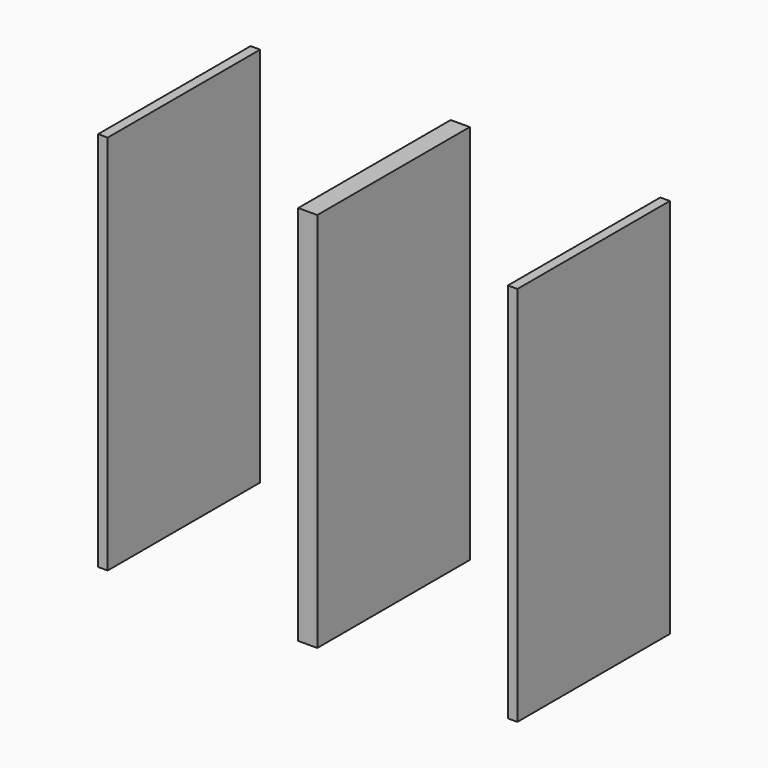
from build123d import *

# Parameters (mm, degrees)
F0_W     = 5
F0_H     = 200
F1_DEPTH = 100


with BuildPart() as f1:
    # F0 (on Front) → F1 (new body)
    with BuildSketch(Plane.XZ):
        Polygon((0, 100), (0, 0), (0, -100), (5, -100), (5, 0), (5, 100), align=None)
        Polygon((0, -100), (0, 0), (0, 100), (-5, 100), (-5, 0), (-5, -100), align=None)
        with Locations((107.5, 0)):
            Rectangle(F0_W, F0_H)
        with Locations((-107.5, 0)):
            Rectangle(F0_W, F0_H)
    extrude(amount=F1_DEPTH)


solid = f1.part
